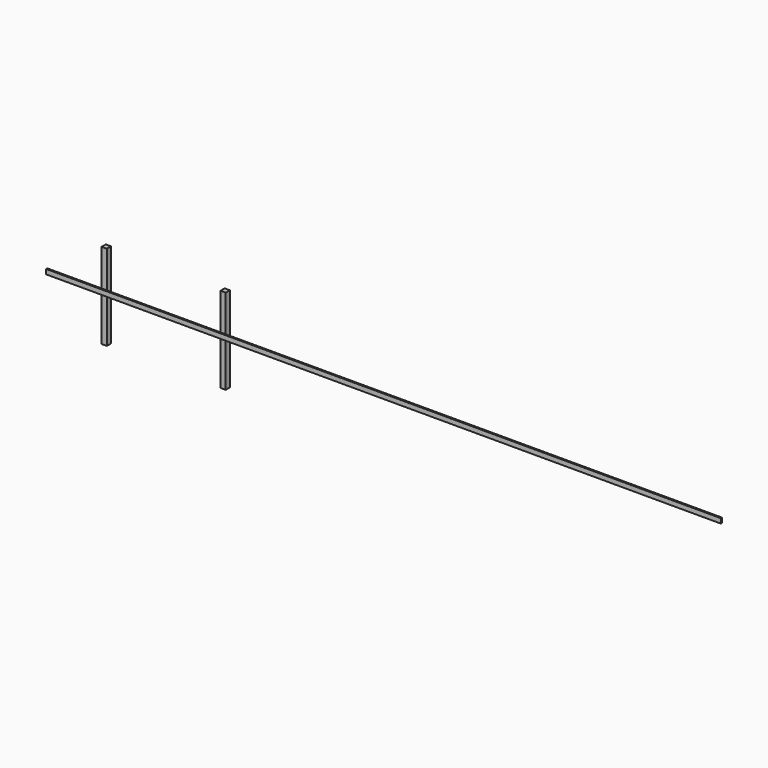
from build123d import *

# Parameters (mm, degrees)
F0_W          = 38.1
F0_H          = 127
F1_DEPTH      = 18021.3
F2_W          = 139.7
F2_H          = 139.7
F3_DEPTH      = 2032
F3_DEPTH_BACK = 254
F4_W          = 139.7
F4_H          = 139.7
F5_DEPTH      = 254
F5_DEPTH_BACK = 2032


with BuildPart() as f1:
    # F0 (on Right) → F1 (new body)
    with BuildSketch(Plane.YZ):
        Rectangle(F0_W, F0_H)
    extrude(amount=F1_DEPTH)


with BuildPart() as f3:
    # F2 (on Top) → F3 (new body, two sides)
    with BuildSketch(Plane.XY) as f3_sk:
        with Locations((577.85, 1270)):
            Rectangle(F2_W, F2_H)
    extrude(amount=-F3_DEPTH)
    extrude(f3_sk.sketch, amount=F3_DEPTH_BACK)


with BuildPart() as f5:
    # F4 (on Top) → F5 (new body, two sides)
    with BuildSketch(Plane.XY) as f5_sk:
        with Locations((3752.85, 1270)):
            Rectangle(F4_W, F4_H)
    extrude(amount=F5_DEPTH)
    extrude(f5_sk.sketch, amount=-F5_DEPTH_BACK)


solid = Compound([f1.part, f3.part, f5.part])
